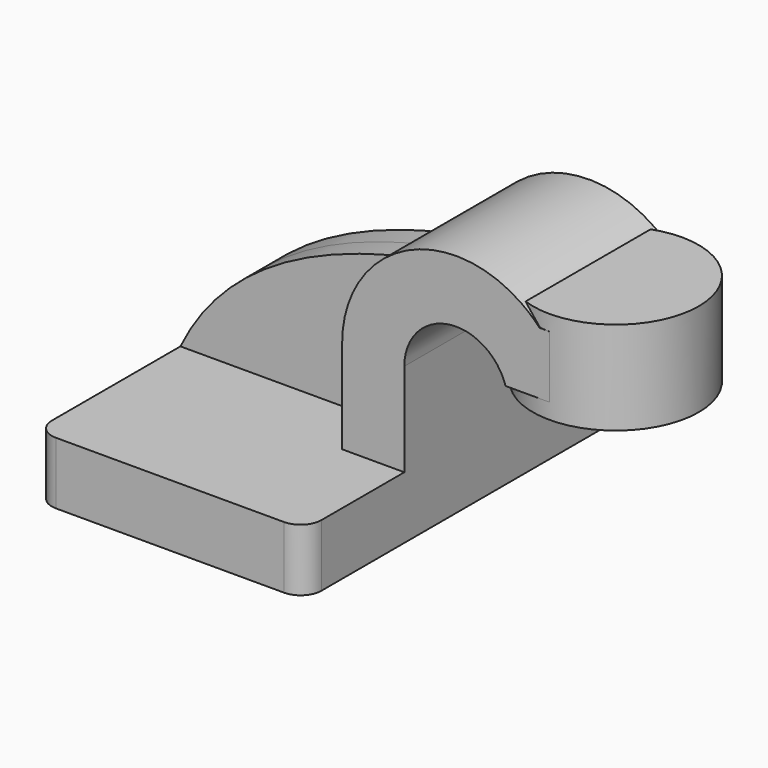
from build123d import *

# Parameters (mm, degrees)
F1_DEPTH = 63.5
F2_DEPTH = 25.4
F3_DEPTH = 7.9375
F5_R     = 6.35


with BuildPart() as f1:
    # F0 (on Front) → F1 (new body, symmetric)
    with BuildSketch(Plane.XZ):
        Polygon((-41.275, -9.525), (41.275, -9.525), (41.275, 9.525), (22.225, 9.525), (-41.275, 9.525), align=None)
    extrude(amount=F1_DEPTH, both=True)

    # F0 (on Front) → F2 (join, symmetric)
    with BuildSketch(Plane.XZ):
        with BuildLine():
            Line((22.225, 9.525), (41.275, 9.525))
            Line((41.275, 9.525), (41.275, 38.1))
            ThreePointArc((41.275, 38.1), (47.109768429, 50.3967221242), (60.325, 53.6542598667))
            Line((60.325, 53.6542598667), (60.325, 60.8617413577))
            add(Edge.make_bspline(
                [(27.1694495599, 56.0143021161), (38.4463876666, 58.5668881117), (49.8029060686, 60.022138531), (60.325, 60.8617413577)],
                knots=[78.5242181533, 78.5242181533, 78.5242181533, 78.5242181533, 110.2246687144, 110.2246687144, 110.2246687144, 110.2246687144], degree=3))
            ThreePointArc((27.1694495599, 56.0143021161), (23.4837977408, 47.3920638418), (22.225, 38.1))
            Line((22.225, 38.1), (22.225, 9.525))
        make_face()
        with BuildLine():
            ThreePointArc((77.2304631421, 66.675), (49.8756923374, 72.2590408681), (27.1694495599, 56.0143021161))
            add(Edge.make_bspline(
                [(27.1694495599, 56.0143021161), (38.4463876666, 58.5668881117), (49.8029060686, 60.022138531), (60.325, 60.8617413577)],
                knots=[78.5242181533, 78.5242181533, 78.5242181533, 78.5242181533, 110.2246687144, 110.2246687144, 110.2246687144, 110.2246687144], degree=3))
            Line((60.325, 60.8617413577), (60.325, 66.675))
            Line((60.325, 66.675), (77.2304631421, 66.675))
        make_face()
        with BuildLine():
            Line((60.325, 60.8617413577), (60.325, 53.6542598667))
            ThreePointArc((60.325, 53.6542598667), (67.7756703476, 49.8945222313), (72.2897850038, 42.8752))
            Line((72.2897850038, 42.8752), (85.725, 42.8752))
            Line((85.725, 42.8752), (85.725, 61.9252))
            Line((85.725, 61.9252), (82.6865516458, 61.9252))
            add(Edge.make_bspline(
                [(60.325, 60.8617413577), (68.4096639512, 61.5068512332), (76.0017140406, 61.7885051595), (82.6865516458, 61.9252)],
                knots=[110.2246687144, 110.2246687144, 110.2246687144, 110.2246687144, 134.5817493068, 134.5817493068, 134.5817493068, 134.5817493068], degree=3))
        make_face()
        with BuildLine():
            ThreePointArc((82.6865516458, 61.9252), (80.0818154438, 64.4417437815), (77.2304631421, 66.675))
            Line((77.2304631421, 66.675), (60.325, 66.675))
            Line((60.325, 66.675), (60.325, 60.8617413577))
            add(Edge.make_bspline(
                [(60.325, 60.8617413577), (68.4096639512, 61.5068512332), (76.0017140406, 61.7885051595), (82.6865516458, 61.9252)],
                knots=[110.2246687144, 110.2246687144, 110.2246687144, 110.2246687144, 134.5817493068, 134.5817493068, 134.5817493068, 134.5817493068], degree=3))
        make_face()
    extrude(amount=F2_DEPTH, both=True)

    # F0 (on Front) → F3 (join, symmetric)
    with BuildSketch(Plane.XZ):
        with BuildLine():
            add(Edge.make_bspline(
                [(-41.275, 9.525), (-28.2097739582, 36.6353245675), (-0.7643094977, 49.6913692863), (27.1694495599, 56.0143021161)],
                knots=[0, 0, 0, 0, 78.5242181533, 78.5242181533, 78.5242181533, 78.5242181533], degree=3))
            Line((-41.275, 9.525), (22.225, 9.525))
            Line((22.225, 9.525), (22.225, 38.1))
            ThreePointArc((22.225, 38.1), (23.4837977408, 47.3920638418), (27.1694495599, 56.0143021161))
        make_face()
    extrude(amount=F3_DEPTH, both=True)

    # F0 (on Front) → F4 (revolve)
    with BuildSketch(Plane.XZ):
        Polygon((111.125, 66.675), (85.725, 66.675), (85.725, 61.9252), (85.725, 42.8752), (85.725, 38.1), (111.125, 38.1), align=None)
    revolve(axis=Axis((85.725, 0, 52.3875), (0, 0, 1)))

    # F5
    f5_edges = [f1.edges().sort_by_distance(p)[0] for p in [
        (41.275, -63.5, 0),
        (41.275, 63.5, 0),
        (-41.275, 63.5, 0),
        (-41.275, -63.5, 0),
    ]]
    fillet(f5_edges, radius=F5_R)


solid = f1.part
